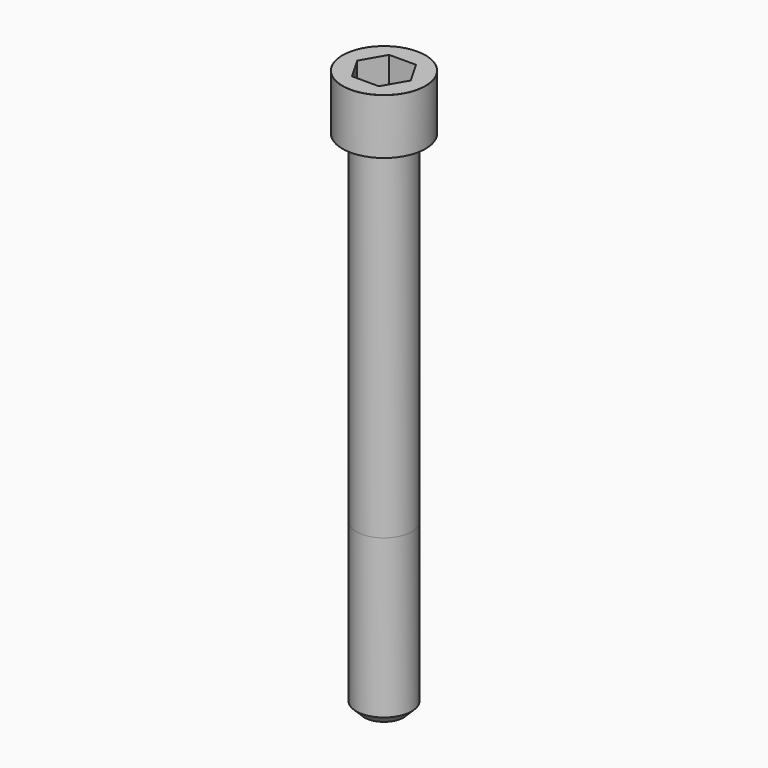
from build123d import *

# Parameters (mm, degrees)
POCKET_DEPTH = 10.07


with BuildPart() as part:
    # Sketch → Revolve (revolve)
    with BuildSketch(Plane.YZ):
        with BuildLine():
            Line((5.999, 0), (9, 0))
            Line((9, 0), (9, 11.97229))
            ThreePointArc((9, 11.97229), (8.991884, 11.991884), (8.97229, 12))
            Line((8.97229, 12), (0, 12))
            Line((0, -110), (0, 12))
            Line((4.25, -110), (0, -110))
            Line((6, -108.25), (4.25, -110))
            Line((6, -74), (6, -108.25))
            Line((5.999, 0), (6, -74))
        make_face()
    revolve(axis=Axis((0, 0, 0), (0, 0, 1)))

    # Sketch001 → Pocket (cut)
    with BuildSketch(Plane.XY.offset(12)):
        Polygon((5.813917, 0), (2.906959, 5.035), (-2.906959, 5.035), (-5.813917, 0), (-2.906959, -5.035), (2.906959, -5.035), align=None)
    extrude(amount=-POCKET_DEPTH, mode=Mode.SUBTRACT)


solid = part.part
